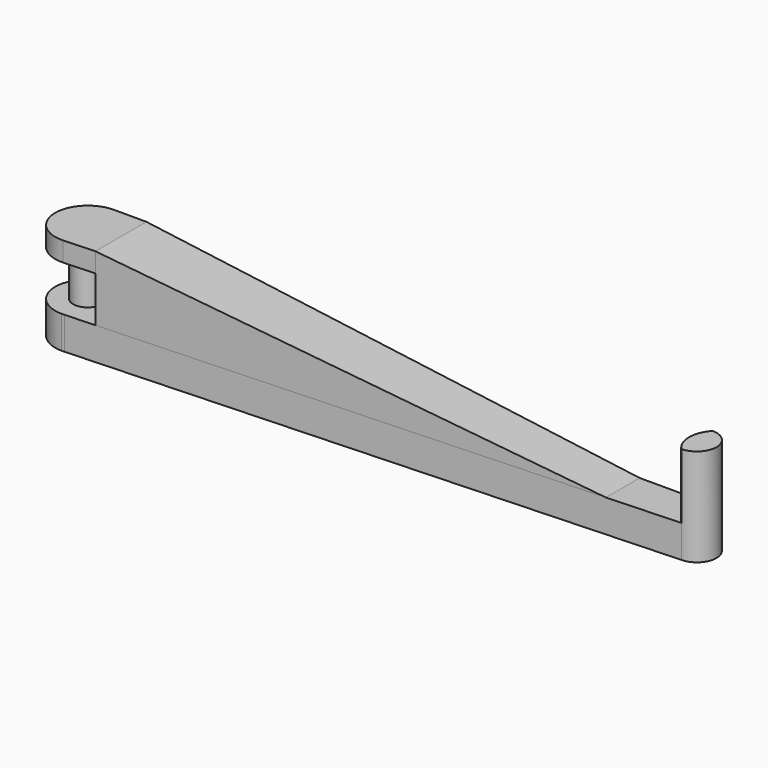
from build123d import *

# Parameters (mm, degrees)
F1_DEPTH  = 5
F3_DEPTH  = 10
F4_R      = 2.25
F5_DEPTH  = 10
F7_DEPTH  = 10
F9_DEPTH  = 3
F11_DEPTH = 25


with BuildPart() as f1:
    # F0 (on Top) → F1 (new body)
    with BuildSketch(Plane.XY):
        with BuildLine():
            Line((91.968499, -21.01471), (0, -21.01471))
            ThreePointArc((0, -21.01471), (-5.009549, -26.024259), (0, -31.033808))
            Line((0, -31.033808), (0.437008, -31.01471))
            Line((0.437008, -31.01471), (91.968499, -27.01471))
            ThreePointArc((91.968499, -27.01471), (94.968499, -24.01471), (91.968499, -21.01471))
        make_face()
        with BuildLine():
            Line((0.437008, -31.01471), (0, -31.033808))
            ThreePointArc((0, -31.033808), (0.218713, -31.029031), (0.437008, -31.01471))
        make_face()
    extrude(amount=F1_DEPTH)

    # F2 (on face) → F3 (join)
    with BuildSketch(Plane.XY.offset(5)):
        with BuildLine():
            ThreePointArc((91.968499, -21.01471), (90.772144, -24.01471), (91.968499, -27.01471))
            ThreePointArc((91.968499, -27.01471), (94.968499, -24.01471), (91.968499, -21.01471))
        make_face()
    extrude(amount=F3_DEPTH)

    # F4 (on face) → F5 (join)
    with BuildSketch(Plane.XY.offset(5)):
        with Locations((0, -26.024259)):
            Circle(F4_R)
    extrude(amount=F5_DEPTH)

    # F6 (on face) → F7 (join)
    with BuildSketch(Plane.XY.offset(5)):
        Polygon((5.009549, -21.01471), (5.009549, -26.024259), (5.009549, -30.814887), (80.772144, -27.504), (80.772144, -21.01471), align=None)
    extrude(amount=F7_DEPTH)

    # F8 (on face) → F9 (join)
    with BuildSketch(Plane.XY.offset(15)):
        with BuildLine():
            Line((5.009549, -21.01471), (0, -21.01471))
            ThreePointArc((0, -21.01471), (-5.008299, -26.136137), (0.2237, -31.028811))
            Line((0.2237, -31.028811), (5.009549, -30.814887))
            Line((5.009549, -30.814887), (5.009549, -21.01471))
        make_face()
    extrude(amount=-F9_DEPTH)

    # F10 (on face) → F11 (cut)
    with BuildSketch(Plane(origin=(0, -21.01471, 0), x_dir=(-1, 0, 0), z_dir=(0, 1, 0))):
        Polygon((-80.772144, 15), (-80.772144, 5), (-5, 15), align=None)
    extrude(amount=-F11_DEPTH, mode=Mode.SUBTRACT)


solid = f1.part
